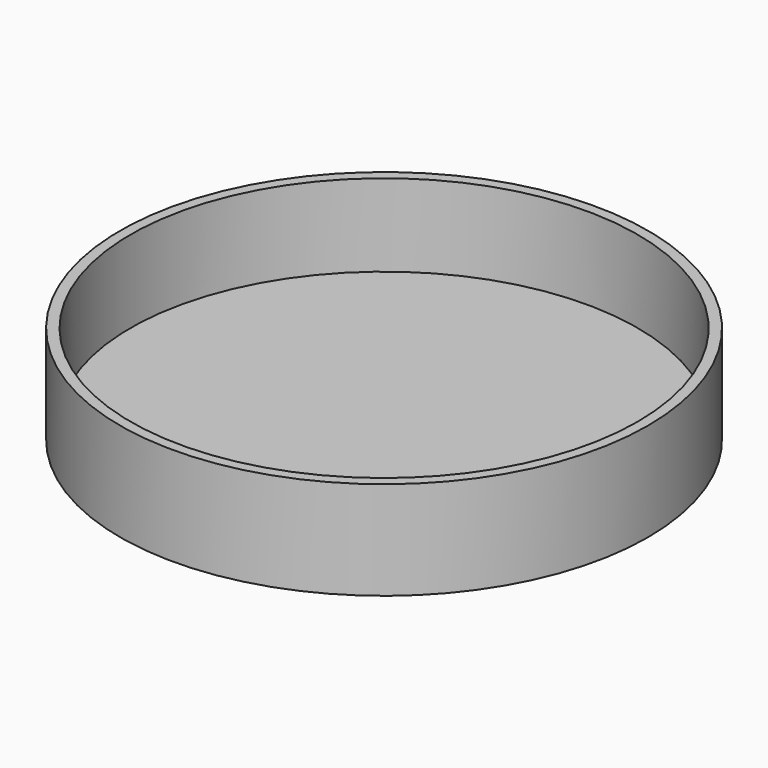
from build123d import *

# Parameters (mm, degrees)
F2_R     = 35.31
F2_R_2   = 34.91
F3_DEPTH = 13.15


with BuildPart() as f1:
    # F0 (on Front) → F1 (revolve)
    with BuildSketch(Plane.XZ):
        Polygon((33.91, 11), (33.91, 0), (0, 0), (0, -2.15), (34.91, -2.15), (34.91, 11), align=None)
    revolve(axis=Axis((0, 0, 9.921602), (0, 0, 1)))

    # F2 (on face) → F3 (join, through all)
    with BuildSketch(Plane(origin=(0, 0, -2.15), x_dir=(1, 0, 0), z_dir=(0, 0, -1))):
        Circle(F2_R)
        Circle(F2_R_2, mode=Mode.SUBTRACT)
    extrude(amount=-F3_DEPTH)


solid = f1.part
